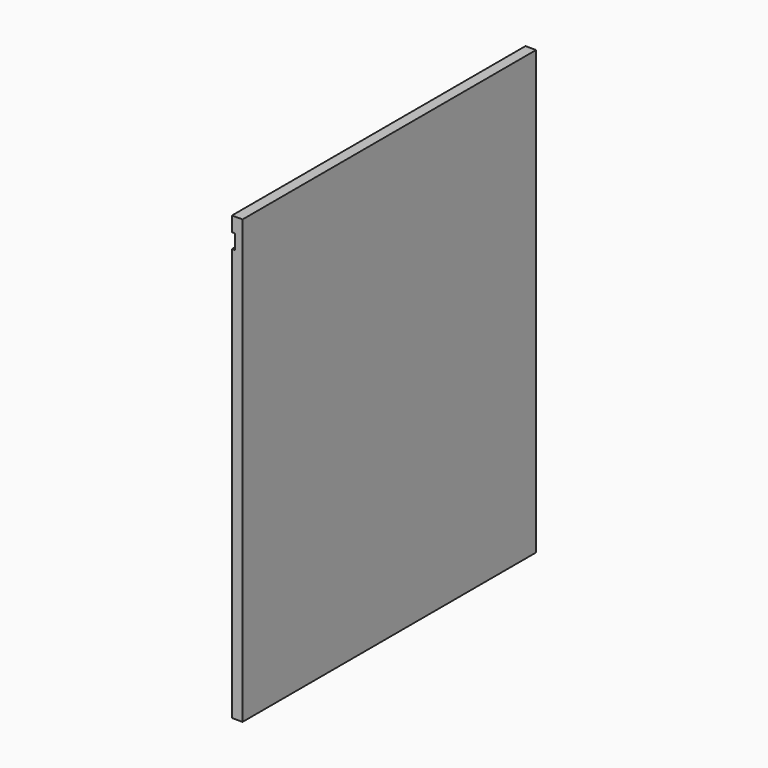
from build123d import *

# Parameters (mm, degrees)
F0_W     = 622
F0_H     = 750
F1_DEPTH = 18
F4_DEPTH = 25


with BuildPart() as f1:
    # F0 (on Right) → F1 (new body)
    with BuildSketch(Plane.YZ):
        with Locations((2.7661435306, 76.1857503125)):
            Rectangle(F0_W, F0_H)
    extrude(amount=F1_DEPTH)

    # F3 (on offset) → F4 (cut)
    with BuildSketch(Plane.XY.offset(426.1857503125)):
        with BuildLine():
            Line((0, -308.2338564694), (5, -308.2338564694))
            Line((5, -308.2338564694), (5, 171.7661435306))
            ThreePointArc((5, 171.7661435306), (3.7414379545, 186.9730498564), (0, 201.7661435306))
            Line((0, 201.7661435306), (0, -308.2338564694))
        make_face()
    extrude(amount=-F4_DEPTH, mode=Mode.SUBTRACT)


solid = f1.part
